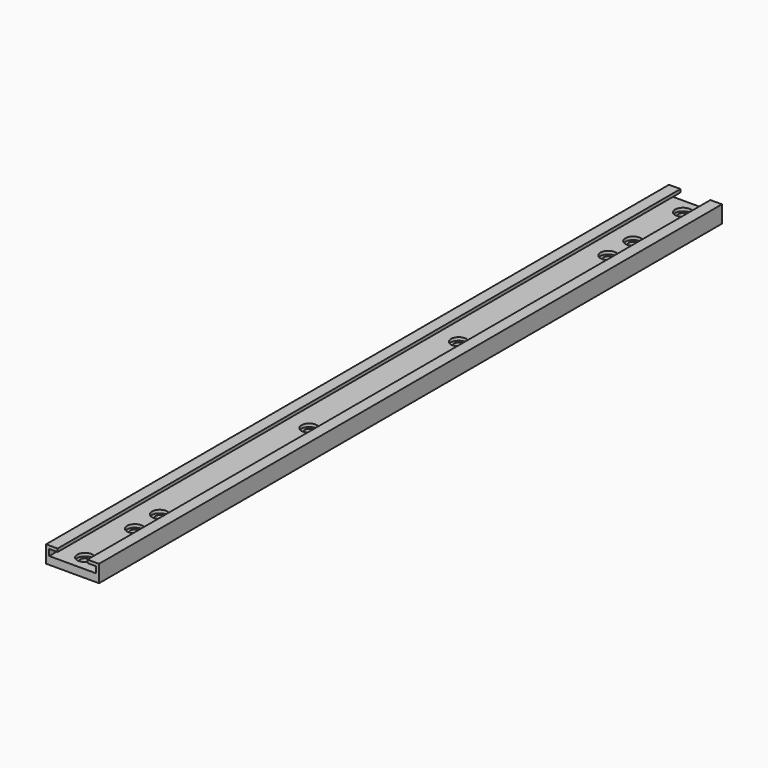
from build123d import *

# Parameters (mm, degrees)
F1_DEPTH       = 125
F1_DEPTH_BACK  = 125
F3_D           = 3
F3_CBORE_D     = 5
F3_CBORE_DEPTH = 1


with BuildPart() as f1:
    # F0 (on Front) → F1 (new body, two sides)
    with BuildSketch(Plane.XZ) as f1_sk:
        Polygon((-8.5, 5.5), (-8.5, 0), (8.5, 0), (8.5, 5.5), (4.8, 5.5), (4.8, 4.5), (7.5, 4.5), (7.5, 2.5), (-7.5, 2.5), (-7.5, 4.5), (-4.8, 4.5), (-4.8, 5.5), align=None)
    extrude(amount=F1_DEPTH)
    extrude(f1_sk.sketch, amount=-F1_DEPTH_BACK)

    # F3 (through all)
    with Locations(Plane.XY.offset(2.5)):
        with Locations((0, -90), (0, -30), (0, 30), (0, 90), (0, 120), (0, 100), (0, -120), (0, -100)):
            CounterBoreHole(F3_D / 2, F3_CBORE_D / 2, F3_CBORE_DEPTH)


solid = f1.part
